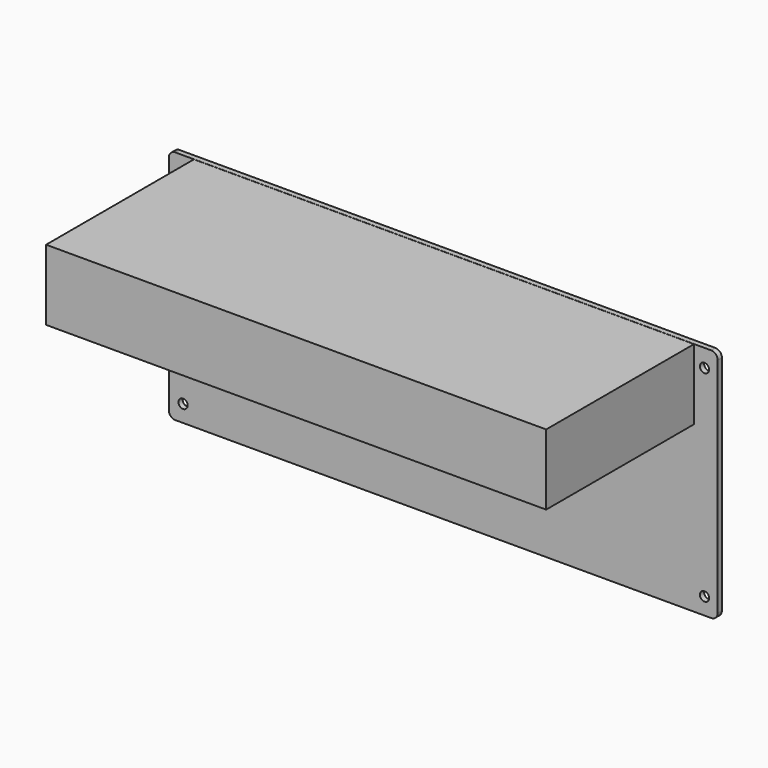
from build123d import *

# Parameters (mm, degrees)
CYLINDER001_R       = 1.75
CYLINDER001_DEPTH   = 10
CYLINDER002_R       = 1.75
CYLINDER002_DEPTH   = 10
CYLINDER003_R       = 1.75
CYLINDER003_DEPTH   = 10
CYLINDER_R          = 1.75
CYLINDER_DEPTH      = 10
BOX001_W            = 189.5
BOX001_H            = 26.75
BOX001_DEPTH        = 70
BOX_W               = 208
BOX_H               = 89.3
BOX_DEPTH           = 2
FILLET_R            = 2.5
CUT_PLACEMENT_ANGLE = 90


with BuildPart() as cylinder001:
    # Cylinder001 → Cylinder001 (new body)
    with BuildSketch(Plane(origin=(5.4, 82.6, 0), x_dir=(1, 0, 0), z_dir=(0, 0, 1))):
        Circle(CYLINDER001_R)
    extrude(amount=CYLINDER001_DEPTH)


with BuildPart() as cylinder002:
    # Cylinder002 → Cylinder002 (new body)
    with BuildSketch(Plane(origin=(203, 82.6, 0), x_dir=(1, 0, 0), z_dir=(0, 0, 1))):
        Circle(CYLINDER002_R)
    extrude(amount=CYLINDER002_DEPTH)


with BuildPart() as cylinder003:
    # Cylinder003 → Cylinder003 (new body)
    with BuildSketch(Plane(origin=(203, 6.4, 0), x_dir=(1, 0, 0), z_dir=(0, 0, 1))):
        Circle(CYLINDER003_R)
    extrude(amount=CYLINDER003_DEPTH)


with BuildPart() as base_hole:
    # Cylinder → Cylinder (new body)
    with BuildSketch(Plane(origin=(5.4, 6.4, 0), x_dir=(1, 0, 0), z_dir=(0, 0, 1))):
        Circle(CYLINDER_R)
    extrude(amount=CYLINDER_DEPTH)

    # Fusion: union Cylinder001, Cylinder002, Cylinder003
    add(cylinder001.part)
    add(cylinder002.part)
    add(cylinder003.part)


with BuildPart() as base_hole_1:
    # Fusion placement: moved
    add(base_hole.part.moved(Location((0, 0, -4))))


with BuildPart() as ozone_monitor:
    # Box001 → Box001 (new body)
    with BuildSketch(Plane(origin=(9.5, 62.5, 2), x_dir=(1, 0, 0), z_dir=(0, 0, 1))):
        with Locations((94.75, 13.375)):
            Rectangle(BOX001_W, BOX001_H)
    extrude(amount=BOX001_DEPTH)


with BuildPart() as ozone_module:
    # Box → Box (new body)
    with BuildSketch(Plane.XY):
        with Locations((104, 44.65)):
            Rectangle(BOX_W, BOX_H)
    extrude(amount=BOX_DEPTH)

    # Fillet
    fillet_edges = [ozone_module.edges().sort_by_distance(p)[0] for p in [
        (0, 0, 1),
        (0, 89.3, 1),
        (208, 0, 1),
        (208, 89.3, 1),
    ]]
    fillet(fillet_edges, radius=FILLET_R)

    # Fusion001: union Ozone_monitor
    add(ozone_monitor.part)

    # Cut: cut Base_hole
    add(base_hole_1.part, mode=Mode.SUBTRACT)


with BuildPart() as ozone_module_1:
    # Cut placement: moved
    add(ozone_module.part.moved(Location((-135, 157, 89.2))).rotate(Axis((-135, 157, 89.2), (1, 0, 0)), CUT_PLACEMENT_ANGLE))


solid = ozone_module_1.part
